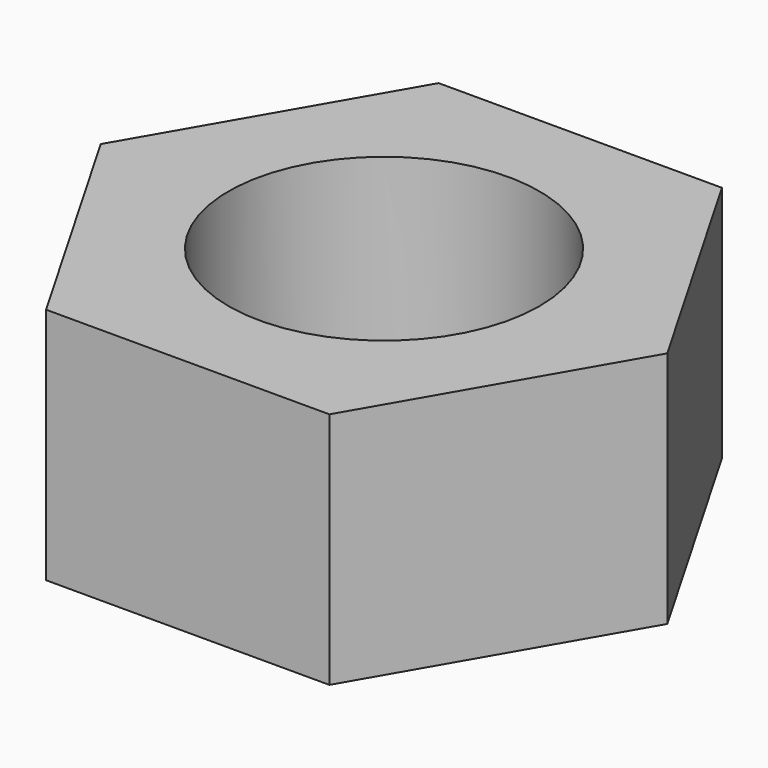
from build123d import *

# Parameters (mm, degrees)
F1_DEPTH  = 20.6
F2_R      = 13.45
F3_DEPTH  = 25
F3_FACE_R = 13.45
F4_DEPTH  = 45.601


with BuildPart() as f1:
    # F0 (on Top) → F1 (new body)
    with BuildSketch(Plane.XY):
        Polygon((-12.25, -21.217622), (12.25, -21.217622), (24.5, 0), (12.25, 21.217622), (-12.25, 21.217622), (-24.5, 0), align=None)
    extrude(amount=F1_DEPTH)

    # F2 (on face) → F3 (join)
    with BuildSketch(Plane.XY.offset(20.6)):
        Circle(F2_R)
    extrude(amount=F3_DEPTH)

    # F3_face (on face) → F4 (cut, through all)
    with BuildSketch(Plane.XY.offset(45.6)):
        Circle(F3_FACE_R)
    extrude(amount=-F4_DEPTH, mode=Mode.SUBTRACT)


solid = f1.part
